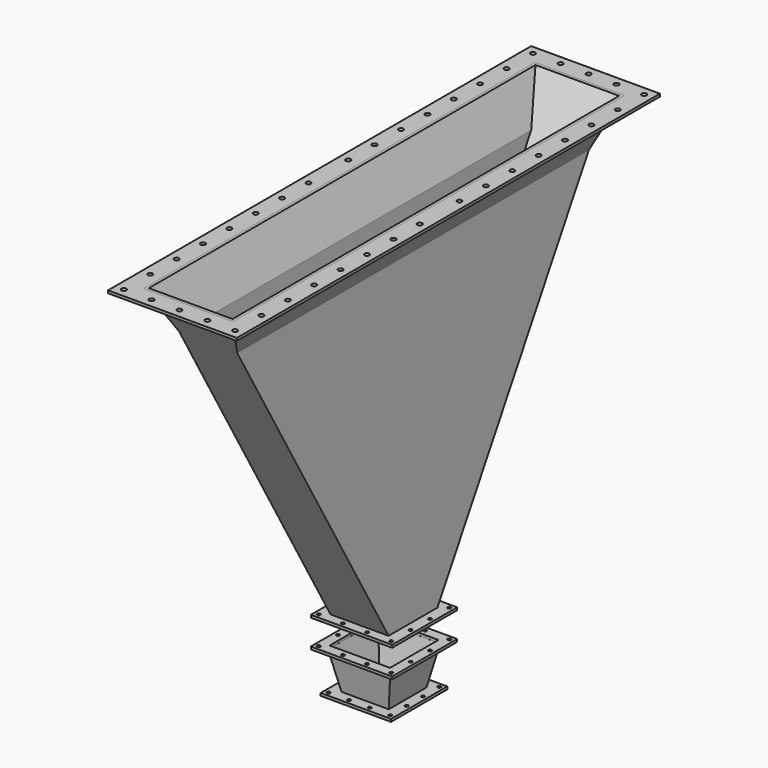
from build123d import *

# Parameters (mm, degrees)
F0_W          = 264
F0_H          = 1494.9291032187
F1_DEPTH      = 1113
F3_DEPTH      = 400
F3_DEPTH_BACK = 400
F4_T          = -12
F5_W          = 240
F5_H          = 240
F6_DEPTH      = 1690.001
F7_W          = 586
F7_H          = 2406
F7_R          = 11
F7_W_2        = 406
F7_H_2        = 2226
F8_DEPTH      = 12
F9_W          = 370
F9_H          = 370
F9_R          = 7.5
F9_W_2        = 264
F9_H_2        = 264
F10_DEPTH     = 12
F12_W         = 370
F12_H         = 370
F12_R         = 7.5
F12_W_2       = 275
F12_H_2       = 275
F13_DEPTH     = 12
F16_DEPTH     = 142.5
F19_DEPTH     = 142.5
F20_T         = -5
F21_W         = 200
F21_H         = 200
F22_DEPTH     = 10
F23_W         = 320
F23_H         = 320
F23_R         = 7.5
F23_W_2       = 210
F23_H_2       = 210
F24_DEPTH     = 12


with BuildPart() as f1:
    # F0 (on Front) → F1 (new body, symmetric)
    with BuildSketch(Plane.XZ):
        Polygon((203, 0), (-203, 0), (-132, -195.0708967813), (132, -195.0708967813), align=None)
        with Locations((0, -942.5354483906)):
            Rectangle(F0_W, F0_H)
    extrude(amount=F1_DEPTH, both=True)

    # F2 (on face) → F3 (cut, two sides)
    with BuildSketch(Plane.YZ.offset(132)) as f3_sk:
        Polygon((1113, 0), (132, -1690), (1113, -1690), align=None)
        Polygon((-1113, -1690), (-132, -1690), (-1113, 0), align=None)
    extrude(amount=-F3_DEPTH, mode=Mode.SUBTRACT)
    extrude(f3_sk.sketch, amount=F3_DEPTH_BACK, mode=Mode.SUBTRACT)

    # F4
    f4_openings = [f1.faces().sort_by_distance(p)[0] for p in [
        (0, 0, 0),
    ]]
    offset(amount=F4_T, openings=f4_openings, kind=Kind.INTERSECTION)

    # F5 (on face) → F6 (cut, through all)
    with BuildSketch(Plane(origin=(0, 0, -1690), x_dir=(1, 0, 0), z_dir=(0, 0, -1))):
        Rectangle(F5_W, F5_H)
    extrude(amount=-F6_DEPTH, mode=Mode.SUBTRACT)

    # F7 (on face) → F8 (join)
    with BuildSketch(Plane.XY):
        Rectangle(F7_W, F7_H)
        with Locations((-253, -1163)):
            Circle(F7_R, mode=Mode.SUBTRACT)
        with Locations((-253, -1013)):
            Circle(F7_R, mode=Mode.SUBTRACT)
        with Locations((-253, -863)):
            Circle(F7_R, mode=Mode.SUBTRACT)
        with Locations((-253, -713)):
            Circle(F7_R, mode=Mode.SUBTRACT)
        with Locations((-127, -1163)):
            Circle(F7_R, mode=Mode.SUBTRACT)
        with Locations((-253, -563)):
            Circle(F7_R, mode=Mode.SUBTRACT)
        with Locations((-253, -413)):
            Circle(F7_R, mode=Mode.SUBTRACT)
        with Locations((-253, -263)):
            Circle(F7_R, mode=Mode.SUBTRACT)
        with Locations((-253, -113)):
            Circle(F7_R, mode=Mode.SUBTRACT)
        with Locations((0, -1163)):
            Circle(F7_R, mode=Mode.SUBTRACT)
        with Locations((127, -1163)):
            Circle(F7_R, mode=Mode.SUBTRACT)
        with Locations((253, -1163)):
            Circle(F7_R, mode=Mode.SUBTRACT)
        with Locations((253, -1013)):
            Circle(F7_R, mode=Mode.SUBTRACT)
        with Locations((253, -863)):
            Circle(F7_R, mode=Mode.SUBTRACT)
        with Locations((253, -713)):
            Circle(F7_R, mode=Mode.SUBTRACT)
        with Locations((253, -563)):
            Circle(F7_R, mode=Mode.SUBTRACT)
        with Locations((253, -413)):
            Circle(F7_R, mode=Mode.SUBTRACT)
        with Locations((253, -263)):
            Circle(F7_R, mode=Mode.SUBTRACT)
        with Locations((253, -113)):
            Circle(F7_R, mode=Mode.SUBTRACT)
        with Locations((-253, 113)):
            Circle(F7_R, mode=Mode.SUBTRACT)
        with Locations((-253, 263)):
            Circle(F7_R, mode=Mode.SUBTRACT)
        with Locations((-253, 413)):
            Circle(F7_R, mode=Mode.SUBTRACT)
        with Locations((-253, 563)):
            Circle(F7_R, mode=Mode.SUBTRACT)
        with Locations((-253, 713)):
            Circle(F7_R, mode=Mode.SUBTRACT)
        with Locations((-253, 863)):
            Circle(F7_R, mode=Mode.SUBTRACT)
        with Locations((-253, 1013)):
            Circle(F7_R, mode=Mode.SUBTRACT)
        with Locations((-253, 1163)):
            Circle(F7_R, mode=Mode.SUBTRACT)
        with Locations((-127, 1163)):
            Circle(F7_R, mode=Mode.SUBTRACT)
        Rectangle(F7_W_2, F7_H_2, mode=Mode.SUBTRACT)
        with Locations((253, 113)):
            Circle(F7_R, mode=Mode.SUBTRACT)
        with Locations((253, 263)):
            Circle(F7_R, mode=Mode.SUBTRACT)
        with Locations((253, 413)):
            Circle(F7_R, mode=Mode.SUBTRACT)
        with Locations((253, 563)):
            Circle(F7_R, mode=Mode.SUBTRACT)
        with Locations((0, 1163)):
            Circle(F7_R, mode=Mode.SUBTRACT)
        with Locations((127, 1163)):
            Circle(F7_R, mode=Mode.SUBTRACT)
        with Locations((253, 713)):
            Circle(F7_R, mode=Mode.SUBTRACT)
        with Locations((253, 863)):
            Circle(F7_R, mode=Mode.SUBTRACT)
        with Locations((253, 1013)):
            Circle(F7_R, mode=Mode.SUBTRACT)
        with Locations((253, 1163)):
            Circle(F7_R, mode=Mode.SUBTRACT)
    extrude(amount=-F8_DEPTH)

    # F9 (on face) → F10 (join)
    with BuildSketch(Plane(origin=(0, 0, -1690), x_dir=(1, 0, 0), z_dir=(0, 0, -1))):
        Rectangle(F9_W, F9_H)
        with Locations((-165, -165)):
            Circle(F9_R, mode=Mode.SUBTRACT)
        with Locations((-55, -165)):
            Circle(F9_R, mode=Mode.SUBTRACT)
        with Locations((-165, -55)):
            Circle(F9_R, mode=Mode.SUBTRACT)
        with Locations((55, -165)):
            Circle(F9_R, mode=Mode.SUBTRACT)
        with Locations((165, -165)):
            Circle(F9_R, mode=Mode.SUBTRACT)
        with Locations((165, -55)):
            Circle(F9_R, mode=Mode.SUBTRACT)
        with Locations((-165, 55)):
            Circle(F9_R, mode=Mode.SUBTRACT)
        with Locations((-165, 165)):
            Circle(F9_R, mode=Mode.SUBTRACT)
        with Locations((-55, 165)):
            Circle(F9_R, mode=Mode.SUBTRACT)
        Rectangle(F9_W_2, F9_H_2, mode=Mode.SUBTRACT)
        with Locations((165, 55)):
            Circle(F9_R, mode=Mode.SUBTRACT)
        with Locations((55, 165)):
            Circle(F9_R, mode=Mode.SUBTRACT)
        with Locations((165, 165)):
            Circle(F9_R, mode=Mode.SUBTRACT)
    extrude(amount=-F10_DEPTH)


with BuildPart() as f13:
    # F12 (on offset) → F13 (new body)
    with BuildSketch(Plane(origin=(0, 0, -1805), x_dir=(1, 0, 0), z_dir=(0, 0, -1))):
        Rectangle(F12_W, F12_H)
        with Locations((-165, -165)):
            Circle(F12_R, mode=Mode.SUBTRACT)
        with Locations((-55, -164.9857014418)):
            Circle(F12_R, mode=Mode.SUBTRACT)
        with Locations((-165, -55)):
            Circle(F12_R, mode=Mode.SUBTRACT)
        with Locations((55, -164.9857014418)):
            Circle(F12_R, mode=Mode.SUBTRACT)
        with Locations((165, -165)):
            Circle(F12_R, mode=Mode.SUBTRACT)
        with Locations((165, -55)):
            Circle(F12_R, mode=Mode.SUBTRACT)
        with Locations((-165, 55)):
            Circle(F12_R, mode=Mode.SUBTRACT)
        with Locations((-165, 165)):
            Circle(F12_R, mode=Mode.SUBTRACT)
        with Locations((-55, 164.9857014418)):
            Circle(F12_R, mode=Mode.SUBTRACT)
        Rectangle(F12_W_2, F12_H_2, mode=Mode.SUBTRACT)
        with Locations((165, 55)):
            Circle(F12_R, mode=Mode.SUBTRACT)
        with Locations((55, 164.9857014418)):
            Circle(F12_R, mode=Mode.SUBTRACT)
        with Locations((165, 165)):
            Circle(F12_R, mode=Mode.SUBTRACT)
    extrude(amount=F13_DEPTH)



with BuildPart() as f16:
    # F15 (on face) → F16 (new body, symmetric)
    with BuildSketch(Plane.YZ):
        Polygon((105, -2005), (142.5, -1817), (-142.5, -1817), (-105, -2005), align=None)
    extrude(amount=F16_DEPTH, both=True)

    # F18 (on face) → F19 (cut, symmetric)
    with BuildSketch(Plane(origin=(0, 0, 0), x_dir=(-1, 0, 0), z_dir=(0, 1, 0))):
        Polygon((142.5, -2005), (142.5, -1817), (105, -2005), align=None)
        Polygon((-105, -2005), (-142.5, -1817), (-142.5, -2005), align=None)
    extrude(amount=F19_DEPTH, both=True, mode=Mode.SUBTRACT)

    # F20
    f20_openings = [f16.faces().sort_by_distance(p)[0] for p in [
        (0, 0, -1817),
    ]]
    offset(amount=F20_T, openings=f20_openings)

    # F21 (on face) → F22 (cut)
    with BuildSketch(Plane(origin=(0, 0, -2005), x_dir=(1, 0, 0), z_dir=(0, 0, -1))):
        Rectangle(F21_W, F21_H)
    extrude(amount=-F22_DEPTH, mode=Mode.SUBTRACT)


with BuildPart() as f13_1:
    add(f13.part)

    add(f16.part)  # F24 merges F16
    # F23 (on face) → F24 (join)
    with BuildSketch(Plane(origin=(0, 0, -2005), x_dir=(1, 0, 0), z_dir=(0, 0, -1))):
        Rectangle(F23_W, F23_H)
        with Locations((-140, -140)):
            Circle(F23_R, mode=Mode.SUBTRACT)
        with Locations((-46.7, -140)):
            Circle(F23_R, mode=Mode.SUBTRACT)
        with Locations((-140, -46.7)):
            Circle(F23_R, mode=Mode.SUBTRACT)
        with Locations((46.7, -140)):
            Circle(F23_R, mode=Mode.SUBTRACT)
        with Locations((140, -140)):
            Circle(F23_R, mode=Mode.SUBTRACT)
        with Locations((140, -46.7)):
            Circle(F23_R, mode=Mode.SUBTRACT)
        with Locations((-140, 46.7)):
            Circle(F23_R, mode=Mode.SUBTRACT)
        with Locations((-140, 140)):
            Circle(F23_R, mode=Mode.SUBTRACT)
        with Locations((-46.7, 140)):
            Circle(F23_R, mode=Mode.SUBTRACT)
        Rectangle(F23_W_2, F23_H_2, mode=Mode.SUBTRACT)
        with Locations((140, 46.7)):
            Circle(F23_R, mode=Mode.SUBTRACT)
        with Locations((46.7, 140)):
            Circle(F23_R, mode=Mode.SUBTRACT)
        with Locations((140, 140)):
            Circle(F23_R, mode=Mode.SUBTRACT)
    extrude(amount=-F24_DEPTH)


solid = Compound([f1.part, f13_1.part])
